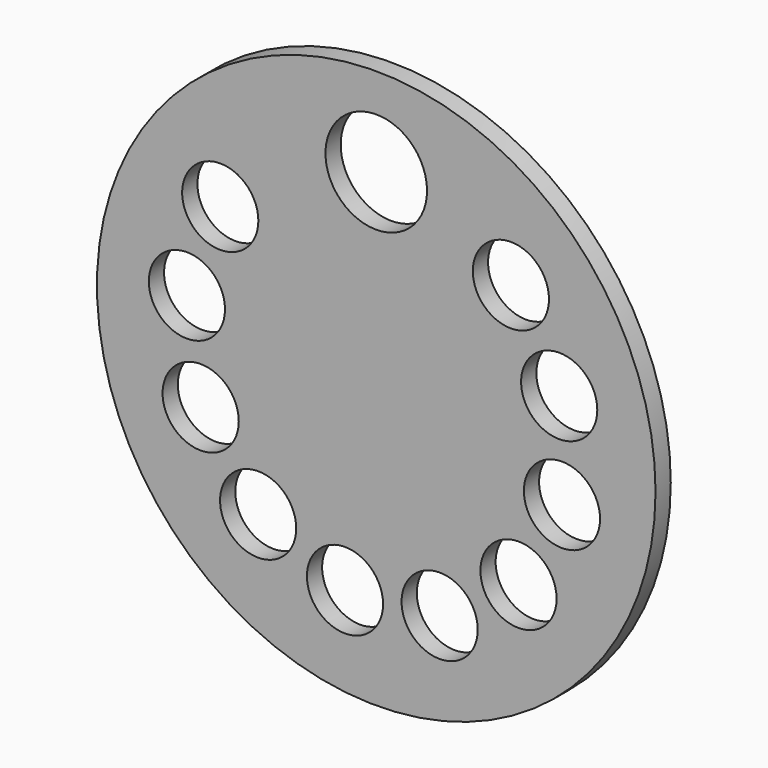
from build123d import *

# Parameters (mm, degrees)
F0_R     = 22
F0_R_2   = 3
F0_R_3   = 4
F1_DEPTH = 1.5
F2_R     = 5
F3_DEPTH = 4


with BuildPart() as f1:
    # F0 (on Front) → F1 (new body)
    with BuildSketch(Plane.XZ):
        Circle(F0_R)
        with Locations((-9.303532, -11.766235)):
            Circle(F0_R_2, mode=Mode.SUBTRACT)
        with Locations((-2.461368, -14.796678)):
            Circle(F0_R_2, mode=Mode.SUBTRACT)
        with Locations((-13.830201, -5.80737)):
            Circle(F0_R_2, mode=Mode.SUBTRACT)
        with Locations((4.99339, -14.144471)):
            Circle(F0_R_2, mode=Mode.SUBTRACT)
        with Locations((11.205376, -9.971938)):
            Circle(F0_R_2, mode=Mode.SUBTRACT)
        with Locations((14.628528, -3.317554)):
            Circle(F0_R_2, mode=Mode.SUBTRACT)
        with Locations((-14.91476, 1.596853)):
            Circle(F0_R_2, mode=Mode.SUBTRACT)
        with Locations((-12.287281, 8.603647)):
            Circle(F0_R_2, mode=Mode.SUBTRACT)
        with Locations((10.606602, 10.606602)):
            Circle(F0_R_2, mode=Mode.SUBTRACT)
        with Locations((14.41088, 4.162515)):
            Circle(F0_R_2, mode=Mode.SUBTRACT)
        with Locations((0, 15)):
            Circle(F0_R_3, mode=Mode.SUBTRACT)
    extrude(amount=F1_DEPTH)

    # F2 (on face) → F3 (join)
    with BuildSketch(Plane(origin=(0, 0, 0), x_dir=(-1, 0, 0), z_dir=(0, 1, 0))):
        Circle(F2_R)
    extrude(amount=F3_DEPTH)


solid = f1.part
